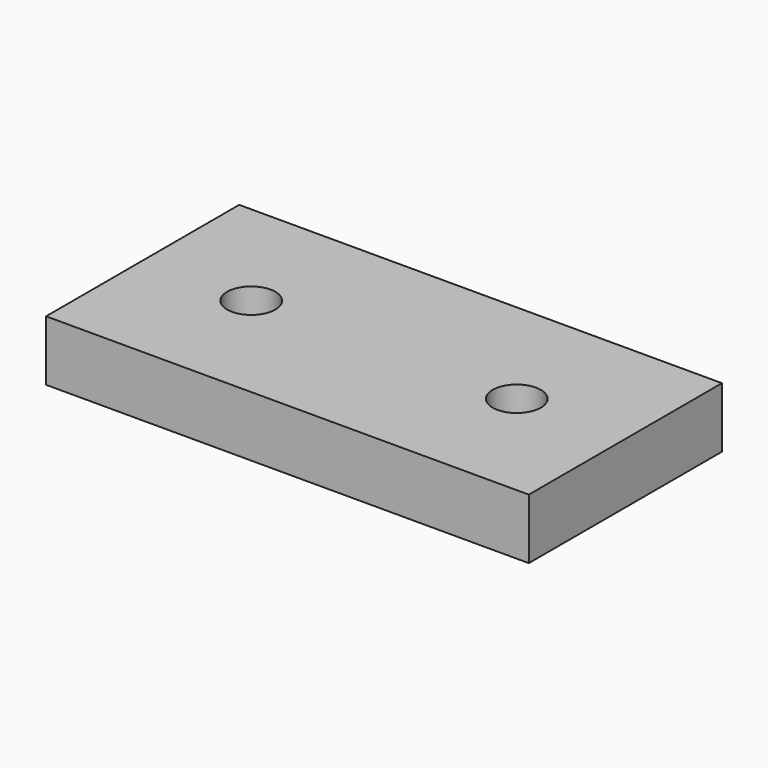
from build123d import *

# Parameters (mm, degrees)
F0_W     = 100
F0_H     = 100
F0_R     = 10
F1_DEPTH = 25


with BuildPart() as f1:
    # F0 (on Top) → F1 (new body)
    with BuildSketch(Plane.XY):
        with Locations((50, 50)):
            Rectangle(F0_W, F0_H)
        with Locations((45, 50)):
            Circle(F0_R, mode=Mode.SUBTRACT)
        with Locations((150, 50)):
            Rectangle(F0_W, F0_H)
        with Locations((155, 50)):
            Circle(F0_R, mode=Mode.SUBTRACT)
    extrude(amount=F1_DEPTH)


solid = f1.part
